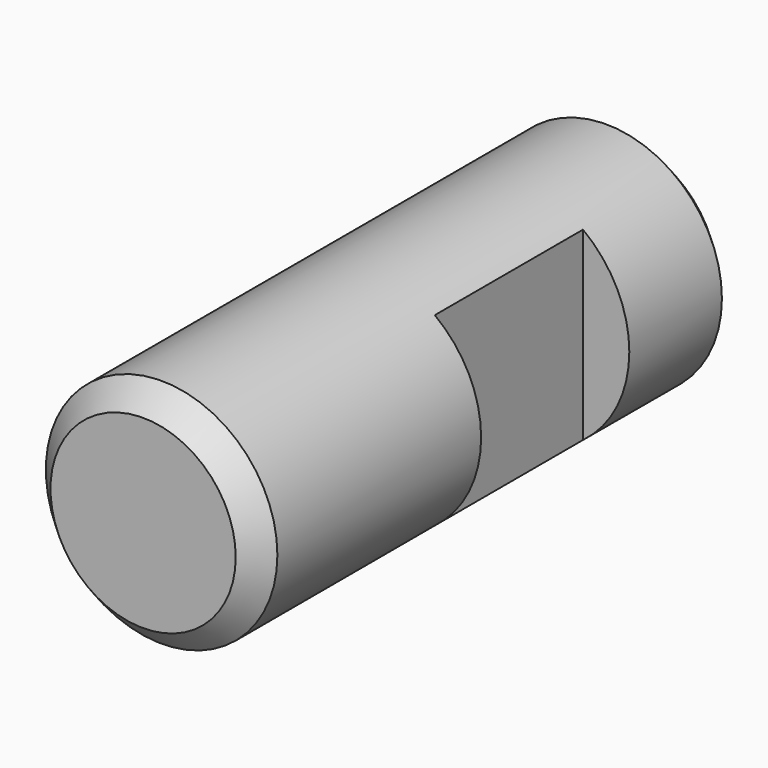
from build123d import *

# Parameters (mm, degrees)
F0_R     = 5
F1_DEPTH = 13
F2_SIZE  = 1
F3_W     = 2
F3_H     = 8
F4_DEPTH = 12.5


with BuildPart() as f1:
    # F0 (on Front) → F1 (new body, symmetric)
    with BuildSketch(Plane.XZ):
        Circle(F0_R)
    extrude(amount=F1_DEPTH, both=True)

    # F2
    f2_edges = [f1.edges().sort_by_distance(p)[0] for p in [
        (-5, -13, 0),
        (-5, 13, 0),
    ]]
    chamfer(f2_edges, length=F2_SIZE)

    # F3 (on Top) → F4 (cut, symmetric)
    with BuildSketch(Plane.XY):
        with Locations((4, 3)):
            Rectangle(F3_W, F3_H)
    extrude(amount=F4_DEPTH, both=True, mode=Mode.SUBTRACT)


solid = f1.part
